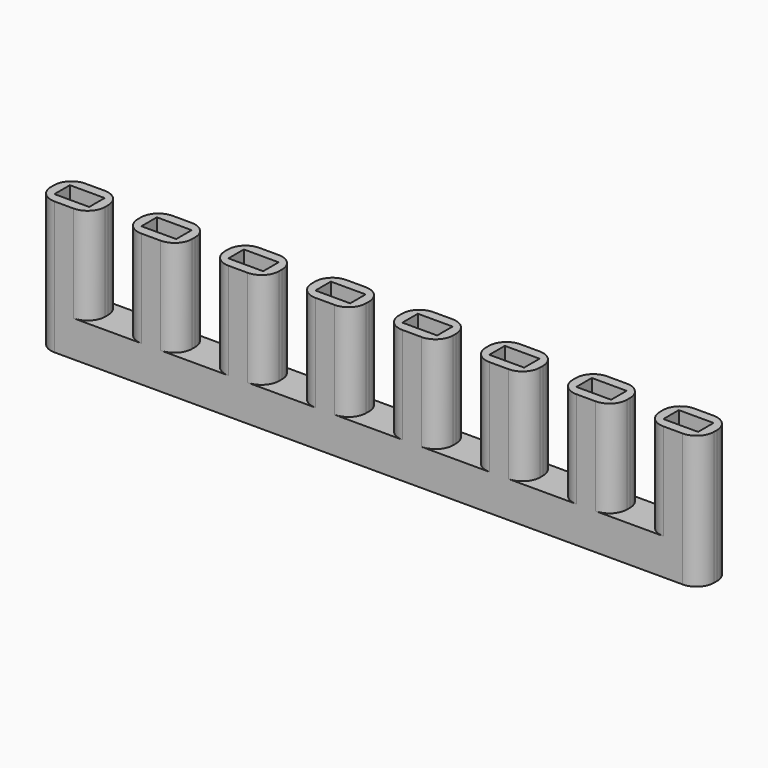
from build123d import *

# Parameters (mm, degrees)
SKETCH008_W     = 68.6
SKETCH008_H     = 4
PAD_DEPTH       = 3.75
SKETCH_W        = 5.6
SKETCH_H        = 4
PAD001_DEPTH    = 10
SKETCH001_W     = 5.6
SKETCH001_H     = 4
PAD002_DEPTH    = 10
SKETCH002_W     = 5.6
SKETCH002_H     = 4
PAD003_DEPTH    = 10
SKETCH003_W     = 5.6
SKETCH003_H     = 4
PAD004_DEPTH    = 10
SKETCH004_W     = 5.6
SKETCH004_H     = 4
PAD005_DEPTH    = 10
SKETCH005_W     = 5.6
SKETCH005_H     = 4
PAD006_DEPTH    = 10
SKETCH006_W     = 5.6
SKETCH006_H     = 4
PAD007_DEPTH    = 10
SKETCH007_W     = 5.6
SKETCH007_H     = 4
PAD008_DEPTH    = 10
SKETCH009_W     = 3.6
SKETCH009_H     = 2
POCKET_DEPTH    = 13.75
SKETCH010_W     = 3.6
SKETCH010_H     = 2
POCKET001_DEPTH = 13.75
SKETCH011_W     = 3.6
SKETCH011_H     = 2
POCKET002_DEPTH = 13.75
SKETCH012_W     = 3.6
SKETCH012_H     = 2
POCKET003_DEPTH = 13.75
SKETCH013_W     = 3.6
SKETCH013_H     = 2
POCKET004_DEPTH = 13.75
SKETCH014_W     = 3.6
SKETCH014_H     = 2
POCKET005_DEPTH = 13.75
SKETCH015_W     = 3.6
SKETCH015_H     = 2
POCKET006_DEPTH = 13.75
SKETCH016_W     = 3.6
SKETCH016_H     = 2
POCKET007_DEPTH = 13.75
FILLET_R        = 1.8


with BuildPart() as part:
    # Sketch008 → Pad (new body)
    with BuildSketch(Plane.XY):
        with Locations((34.3, 2)):
            Rectangle(SKETCH008_W, SKETCH008_H)
    extrude(amount=-PAD_DEPTH)

    # Sketch → Pad001 (join)
    with BuildSketch(Plane.XY):
        with Locations((2.8, 2)):
            Rectangle(SKETCH_W, SKETCH_H)
    extrude(amount=PAD001_DEPTH)

    # Sketch001 → Pad002 (join)
    with BuildSketch(Plane.XY):
        with Locations((11.8, 2)):
            Rectangle(SKETCH001_W, SKETCH001_H)
    extrude(amount=PAD002_DEPTH)

    # Sketch002 → Pad003 (join)
    with BuildSketch(Plane.XY):
        with Locations((20.8, 2)):
            Rectangle(SKETCH002_W, SKETCH002_H)
    extrude(amount=PAD003_DEPTH)

    # Sketch003 → Pad004 (join)
    with BuildSketch(Plane.XY):
        with Locations((29.8, 2)):
            Rectangle(SKETCH003_W, SKETCH003_H)
    extrude(amount=PAD004_DEPTH)

    # Sketch004 → Pad005 (join)
    with BuildSketch(Plane.XY):
        with Locations((38.8, 2)):
            Rectangle(SKETCH004_W, SKETCH004_H)
    extrude(amount=PAD005_DEPTH)

    # Sketch005 → Pad006 (join)
    with BuildSketch(Plane.XY):
        with Locations((47.8, 2)):
            Rectangle(SKETCH005_W, SKETCH005_H)
    extrude(amount=PAD006_DEPTH)

    # Sketch006 → Pad007 (join)
    with BuildSketch(Plane.XY):
        with Locations((56.8, 2)):
            Rectangle(SKETCH006_W, SKETCH006_H)
    extrude(amount=PAD007_DEPTH)

    # Sketch007 → Pad008 (join)
    with BuildSketch(Plane.XY):
        with Locations((65.8, 2)):
            Rectangle(SKETCH007_W, SKETCH007_H)
    extrude(amount=PAD008_DEPTH)

    # Sketch009 (on Face24 of Pad008) → Pocket (cut)
    with BuildSketch(Plane.XY.offset(10)):
        with Locations((2.8, 2)):
            Rectangle(SKETCH009_W, SKETCH009_H)
    extrude(amount=-POCKET_DEPTH, mode=Mode.SUBTRACT)

    # Sketch010 (on Face27 of Pad008) → Pocket001 (cut)
    with BuildSketch(Plane.XY.offset(10)):
        with Locations((11.8, 2)):
            Rectangle(SKETCH010_W, SKETCH010_H)
    extrude(amount=-POCKET001_DEPTH, mode=Mode.SUBTRACT)

    # Sketch011 (on Face30 of Pad008) → Pocket002 (cut)
    with BuildSketch(Plane.XY.offset(10)):
        with Locations((20.8, 2)):
            Rectangle(SKETCH011_W, SKETCH011_H)
    extrude(amount=-POCKET002_DEPTH, mode=Mode.SUBTRACT)

    # Sketch012 (on Face33 of Pad008) → Pocket003 (cut)
    with BuildSketch(Plane.XY.offset(10)):
        with Locations((29.8, 2)):
            Rectangle(SKETCH012_W, SKETCH012_H)
    extrude(amount=-POCKET003_DEPTH, mode=Mode.SUBTRACT)

    # Sketch013 (on Face36 of Pad008) → Pocket004 (cut)
    with BuildSketch(Plane.XY.offset(10)):
        with Locations((38.8, 2)):
            Rectangle(SKETCH013_W, SKETCH013_H)
    extrude(amount=-POCKET004_DEPTH, mode=Mode.SUBTRACT)

    # Sketch014 (on Face39 of Pad008) → Pocket005 (cut)
    with BuildSketch(Plane.XY.offset(10)):
        with Locations((47.8, 2)):
            Rectangle(SKETCH014_W, SKETCH014_H)
    extrude(amount=-POCKET005_DEPTH, mode=Mode.SUBTRACT)

    # Sketch015 (on Face42 of Pad008) → Pocket006 (cut)
    with BuildSketch(Plane.XY.offset(10)):
        with Locations((56.8, 2)):
            Rectangle(SKETCH015_W, SKETCH015_H)
    extrude(amount=-POCKET006_DEPTH, mode=Mode.SUBTRACT)

    # Sketch016 (on Face44 of Pad008) → Pocket007 (cut)
    with BuildSketch(Plane.XY.offset(10)):
        with Locations((65.8, 2)):
            Rectangle(SKETCH016_W, SKETCH016_H)
    extrude(amount=-POCKET007_DEPTH, mode=Mode.SUBTRACT)

    # Fillet
    fillet_edges = [part.edges().sort_by_distance(p)[0] for p in [
        (0, 4, 5),
        (0, 0, 5),
        (5.6, 4, 5),
        (5.6, 0, 5),
        (9, 0, 5),
        (9, 4, 5),
        (14.6, 4, 5),
        (14.6, 0, 5),
        (18, 4, 5),
        (18, 0, 5),
        (23.6, 4, 5),
        (23.6, 0, 5),
        (27, 4, 5),
        (27, 0, 5),
        (32.6, 4, 5),
        (32.6, 0, 5),
        (36, 4, 5),
        (41.6, 4, 5),
        (36, 0, 5),
        (41.6, 0, 5),
        (45, 4, 5),
        (45, 0, 5),
        (50.6, 0, 5),
        (50.6, 4, 5),
        (54, 4, 5),
        (59.6, 4, 5),
        (59.6, 0, 5),
        (54, 0, 5),
        (63, 4, 5),
        (63, 0, 5),
        (68.6, 0, 5),
        (68.6, 4, 5),
    ]]
    fillet(fillet_edges, radius=FILLET_R)


solid = part.part
